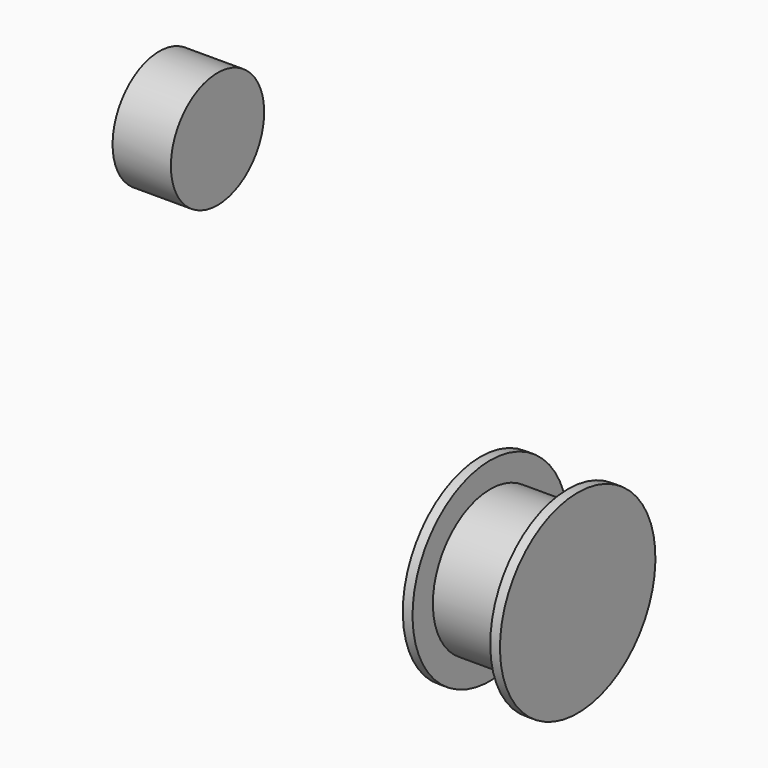
from build123d import *

# Parameters (mm, degrees)
F2_W = 7.62
F2_H = 7.62


with BuildPart() as f1:
    # F0 (on Front) → F1 (revolve)
    with BuildSketch(Plane.XZ):
        Polygon((-12.64595, 14.6163), (-13.91595, 14.6163), (-13.91595, 1.9163), (-1.21595, 1.9163), (-1.21595, 14.6163), (-2.48595, 14.6163), (-2.48595, 11.294413), (-12.64595, 11.294413), align=None)
    revolve(axis=Axis((-7.56595, 0, 1.9163), (1, 0, 0)))


with BuildPart() as f3:
    # F2 (on Front) → F3 (revolve)
    with BuildSketch(Plane.XZ):
        with Locations((-52.106157, 36.177309)):
            Rectangle(F2_W, F2_H)
    revolve(axis=Axis((-52.106157, 0, 39.987309), (1, 0, 0)))


solid = Compound([f1.part, f3.part])
